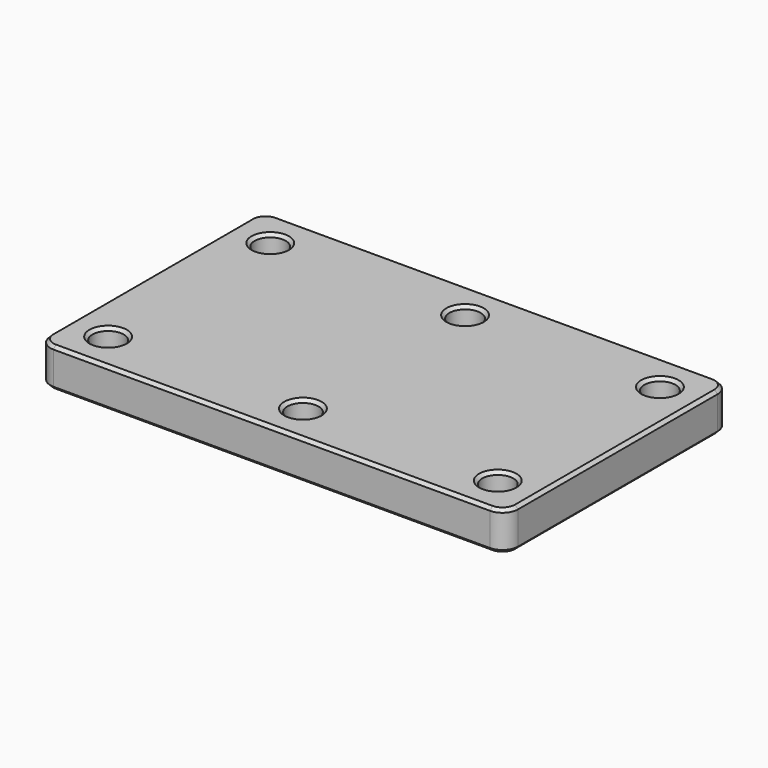
from build123d import *

# Parameters (mm, degrees)
F0_W     = 300
F0_H     = 180
F0_R     = 10
F1_DEPTH = 25
F2_R     = 10
F3_SIZE2 = 2
F3_SIZE  = 2


with BuildPart() as f1:
    # F0 (on Top) → F1 (new body)
    with BuildSketch(Plane.XY):
        Rectangle(F0_W, F0_H)
        with Locations((-125, -65)):
            Circle(F0_R, mode=Mode.SUBTRACT)
        with Locations((0, -65)):
            Circle(F0_R, mode=Mode.SUBTRACT)
        with Locations((125, -65)):
            Circle(F0_R, mode=Mode.SUBTRACT)
        with Locations((-125, 65)):
            Circle(F0_R, mode=Mode.SUBTRACT)
        with Locations((0, 65)):
            Circle(F0_R, mode=Mode.SUBTRACT)
        with Locations((125, 65)):
            Circle(F0_R, mode=Mode.SUBTRACT)
    extrude(amount=F1_DEPTH)

    # F2
    f2_edges = [f1.edges().sort_by_distance(p)[0] for p in [
        (-150, -90, 12.5),
        (-150, 90, 12.5),
        (150, -90, 12.5),
        (150, 90, 12.5),
    ]]
    fillet(f2_edges, radius=F2_R)

    # F3
    f3_edges = [f1.edges().sort_by_distance(p)[0] for p in [
        (150, 0, 25),
        (147.071068, -87.071068, 25),
        (147.071068, 87.071068, 25),
        (0, -90, 25),
        (0, 90, 25),
        (-147.071068, -87.071068, 25),
        (-147.071068, 87.071068, 25),
        (-150, 0, 25),
        (-135, -65, 25),
        (-10, -65, 25),
        (115, -65, 25),
        (-135, 65, 25),
        (-10, 65, 25),
        (115, 65, 25),
        (150, 0, 0),
        (147.071068, -87.071068, 0),
        (147.071068, 87.071068, 0),
        (0, -90, 0),
        (0, 90, 0),
        (-147.071068, -87.071068, 0),
        (-147.071068, 87.071068, 0),
        (-150, 0, 0),
        (-135, -65, 0),
        (-10, -65, 0),
        (115, -65, 0),
        (-135, 65, 0),
        (-10, 65, 0),
        (115, 65, 0),
    ]]
    chamfer(f3_edges, length=F3_SIZE, length2=F3_SIZE2)


solid = f1.part
